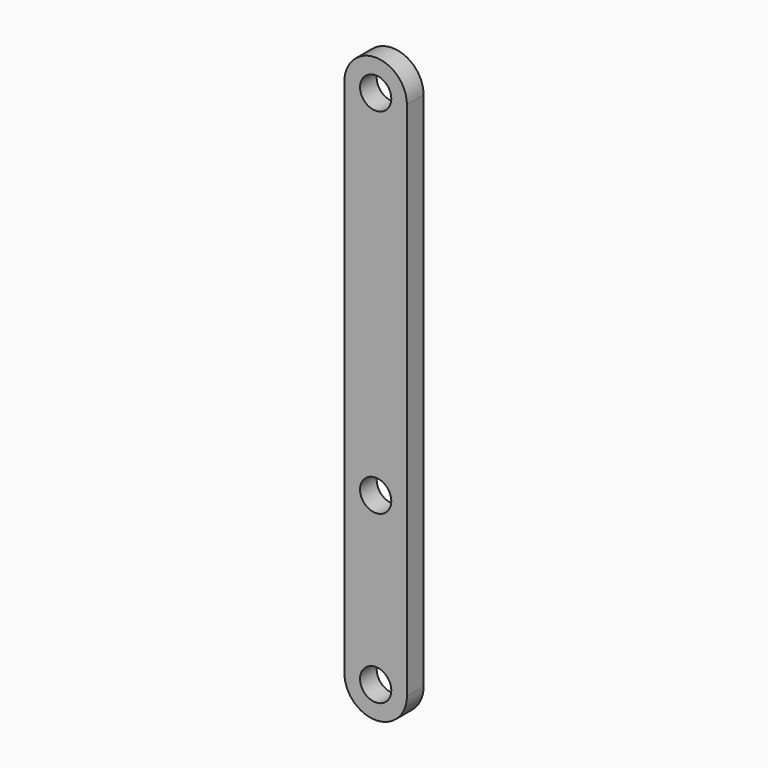
from build123d import *

# Parameters (mm, degrees)
F0_R     = 1.5
F1_DEPTH = 2


with BuildPart() as f1:
    # F0 (on Front) → F1 (new body)
    with BuildSketch(Plane.XZ):
        with BuildLine():
            ThreePointArc((-3, -25), (0, -28), (3, -25))
            Line((3, -25), (3, 25))
            ThreePointArc((3, 25), (0, 28), (-3, 25))
            Line((-3, 25), (-3, -25))
        make_face()
        with Locations((0, -25)):
            Circle(F0_R, mode=Mode.SUBTRACT)
        with Locations((0, -9)):
            Circle(F0_R, mode=Mode.SUBTRACT)
        with Locations((0, 25)):
            Circle(F0_R, mode=Mode.SUBTRACT)
    extrude(amount=F1_DEPTH)


solid = f1.part
